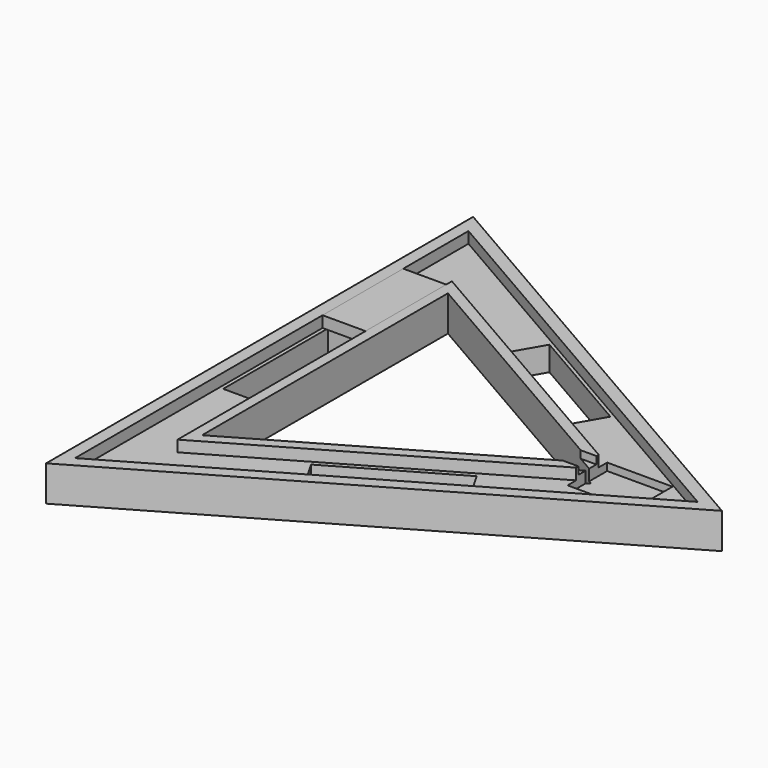
from build123d import *

# Parameters (mm, degrees)
BOX005_W               = 23
BOX005_H               = 54
BOX005_DEPTH           = 6
PRISM003_DEPTH         = 6
PRISM002_DEPTH         = 6
BOX004_W               = 10
BOX004_H               = 12
BOX004_DEPTH           = 4
BOX003_W               = 35
BOX003_H               = 26.5
BOX003_DEPTH           = 10
BOX002_W               = 70
BOX002_H               = 19
BOX002_DEPTH           = 19
BOX002_PLACEMENT_ANGLE = 30
BOX001_W               = 70
BOX001_H               = 19
BOX001_DEPTH           = 19
BOX001_PLACEMENT_ANGLE = 90
BOX_W                  = 70
BOX_H                  = 19
BOX_DEPTH              = 19
BOX_PLACEMENT_ANGLE    = 30
PRISM001_DEPTH         = 19
PRISM_DEPTH            = 19


with BuildPart() as box005:
    # Box005 → Box005 (new body)
    with BuildSketch(Plane(origin=(-76, 34, 13), x_dir=(1, 0, 0), z_dir=(0, 0, 1))):
        with Locations((11.5, 27)):
            Rectangle(BOX005_W, BOX005_H)
    extrude(amount=BOX005_DEPTH)


with BuildPart() as prism003:
    # Prism003 → Prism003 (new body)
    with BuildSketch(Plane.XY.offset(13)):
        Polygon((106, 0), (-53, 91.798693), (-53, -91.798693), align=None)
    extrude(amount=PRISM003_DEPTH)


with BuildPart() as cut006:
    # Prism002 → Prism002 (new body)
    with BuildSketch(Plane.XY.offset(13)):
        Polygon((152, 0), (-76, 131.635861), (-76, -131.635861), align=None)
    extrude(amount=PRISM002_DEPTH)

    # Cut006: cut Prism003
    add(prism003.part, mode=Mode.SUBTRACT)


with BuildPart() as box004:
    # Box004 → Box004 (new body)
    with BuildSketch(Plane(origin=(84, -6, 15), x_dir=(1, 0, 0), z_dir=(0, 0, 1))):
        with Locations((5, 6)):
            Rectangle(BOX004_W, BOX004_H)
    extrude(amount=BOX004_DEPTH)


with BuildPart() as box003:
    # Box003 → Box003 (new body)
    with BuildSketch(Plane(origin=(93, -13.3, 9), x_dir=(1, 0, 0), z_dir=(0, 0, 1))):
        with Locations((17.5, 13.25)):
            Rectangle(BOX003_W, BOX003_H)
    extrude(amount=BOX003_DEPTH)


with BuildPart() as box002:
    # Box002 → Box002 (new body)
    with BuildSketch(Plane.XY):
        with Locations((35, 9.5)):
            Rectangle(BOX002_W, BOX002_H)
    extrude(amount=BOX002_DEPTH)


with BuildPart() as box002_1:
    # Box002 placement: moved
    add(box002.part.moved(Location((7, -82, 0))).rotate(Axis((7, -82, 0), (0, 0, 1)), BOX002_PLACEMENT_ANGLE))


with BuildPart() as box001:
    # Box001 → Box001 (new body)
    with BuildSketch(Plane.XY):
        with Locations((35, 9.5)):
            Rectangle(BOX001_W, BOX001_H)
    extrude(amount=BOX001_DEPTH)


with BuildPart() as box001_1:
    # Box001 placement: moved
    add(box001.part.moved(Location((-55, -35, 0))).rotate(Axis((-55, -35, 0), (0, 0, 1)), BOX001_PLACEMENT_ANGLE))


with BuildPart() as box:
    # Box → Box (new body)
    with BuildSketch(Plane.XY):
        with Locations((35, 9.5)):
            Rectangle(BOX_W, BOX_H)
    extrude(amount=BOX_DEPTH)


with BuildPart() as box_1:
    # Box placement: moved
    add(box.part.moved(Location((-2, 65, 0))).rotate(Axis((-2, 65, 0), (0, 0, -1)), BOX_PLACEMENT_ANGLE))


with BuildPart() as prism001:
    # Prism001 → Prism001 (new body)
    with BuildSketch(Plane.XY):
        Polygon((95, 0), (-47.5, 82.272413), (-47.5, -82.272413), align=None)
    extrude(amount=PRISM001_DEPTH)


with BuildPart() as cut007:
    # Prism → Prism (new body)
    with BuildSketch(Plane.XY):
        Polygon((165, 0), (-82.5, 142.894192), (-82.5, -142.894192), align=None)
    extrude(amount=PRISM_DEPTH)

    # Cut: cut Prism001
    add(prism001.part, mode=Mode.SUBTRACT)

    # Cut001: cut Box
    add(box_1.part, mode=Mode.SUBTRACT)

    # Cut002: cut Box001
    add(box001_1.part, mode=Mode.SUBTRACT)

    # Cut003: cut Box002
    add(box002_1.part, mode=Mode.SUBTRACT)

    # Cut004: cut Box003
    add(box003.part, mode=Mode.SUBTRACT)

    # Cut005: cut Box004
    add(box004.part, mode=Mode.SUBTRACT)

    # Cut007: cut Cut006
    add(cut006.part, mode=Mode.SUBTRACT)


solid = Compound([box005.part, cut007.part])
